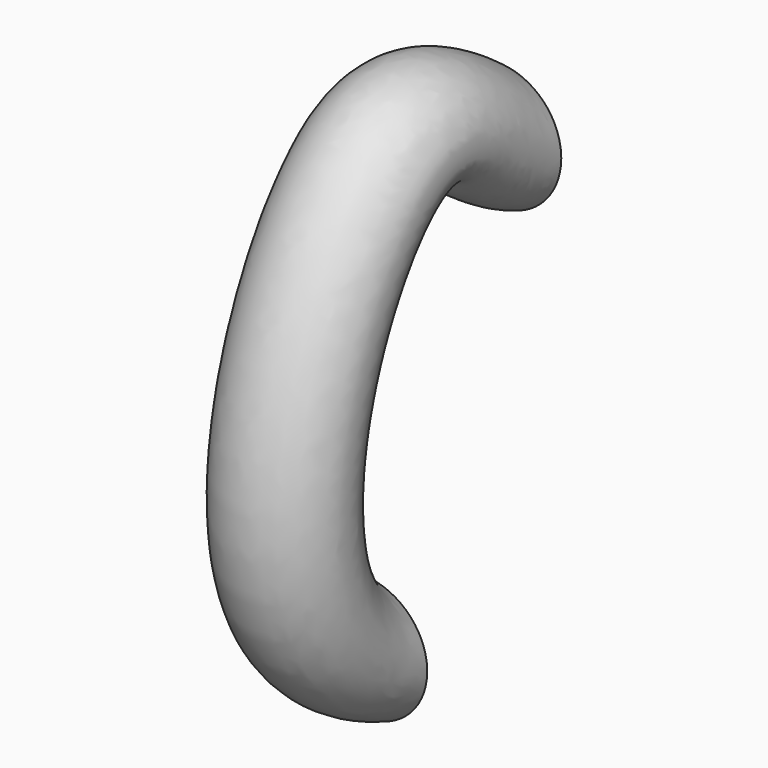
from build123d import *

# Parameters (mm, degrees)
F0_R = 25.4


with BuildPart() as f2:
    # F2: sweep along a path in F1
    with BuildLine(Plane.YZ) as f2_path:
        add(Plane.YZ * Edge.make_bspline(
            [(0, 0), (-18.8869083615, 9.4695387774), (-71.6106829312, 62.0644635714), (-138.1895840168, -119.1456541419), (-66.871650517, -152.582898736)],
            knots=[0, 0, 0, 0, 0.3792607854, 1, 1, 1, 1], degree=3))
    # F0 (on Front) → F2 (sweep)
    with BuildSketch(Plane.XZ):
        Circle(F0_R)
    sweep(path=f2_path.line)


solid = f2.part
